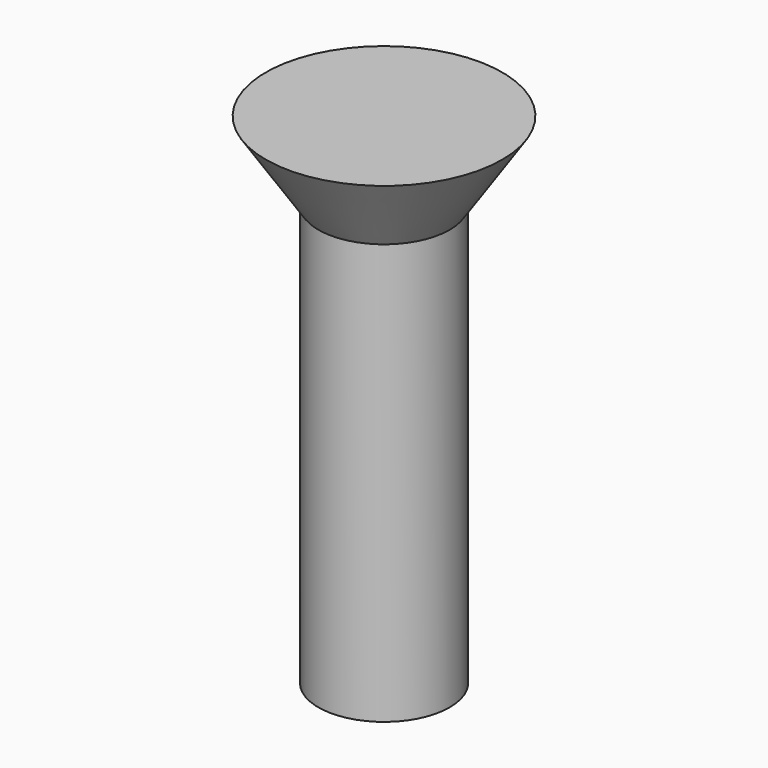
from build123d import *

# Parameters (mm, degrees)
CYLINDER011_R                   = 2.5
CYLINDER011_DEPTH               = 16
FUSION001018017_PLACEMENT_ANGLE = 180
CLONE019_PLACEMENT_ANGLE        = 180


with BuildPart() as cone003:
    # Cone003 → Cone003 (revolve)
    with BuildSketch(Plane(origin=(0, 0, -3), x_dir=(1, 0, 0), z_dir=(0, -1, 0))):
        Polygon((0, 0), (4.5, 0), (2.5, 3), (0, 3), align=None)
    revolve(axis=Axis((0, 0, -3), (0, 0, 1)))


with BuildPart() as obj1:
    # Cylinder011 → Cylinder011 (new body)
    with BuildSketch(Plane.XY):
        Circle(CYLINDER011_R)
    extrude(amount=CYLINDER011_DEPTH)

    # Fusion001018017: union Cone003
    add(cone003.part)


with BuildPart() as obj1_1:
    # Fusion001018017 placement: moved
    add(obj1.part.moved(Location((45, 15, 21))).rotate(Axis((45, 15, 21), (0, 1, 0)), FUSION001018017_PLACEMENT_ANGLE))


with BuildPart() as obj1_2:
    # Clone019 placement: moved
    add(obj1_1.part.moved(Location((115, 190, 0))).rotate(Axis((115, 190, 0), (0, 0, 1)), CLONE019_PLACEMENT_ANGLE))


solid = obj1_2.part
